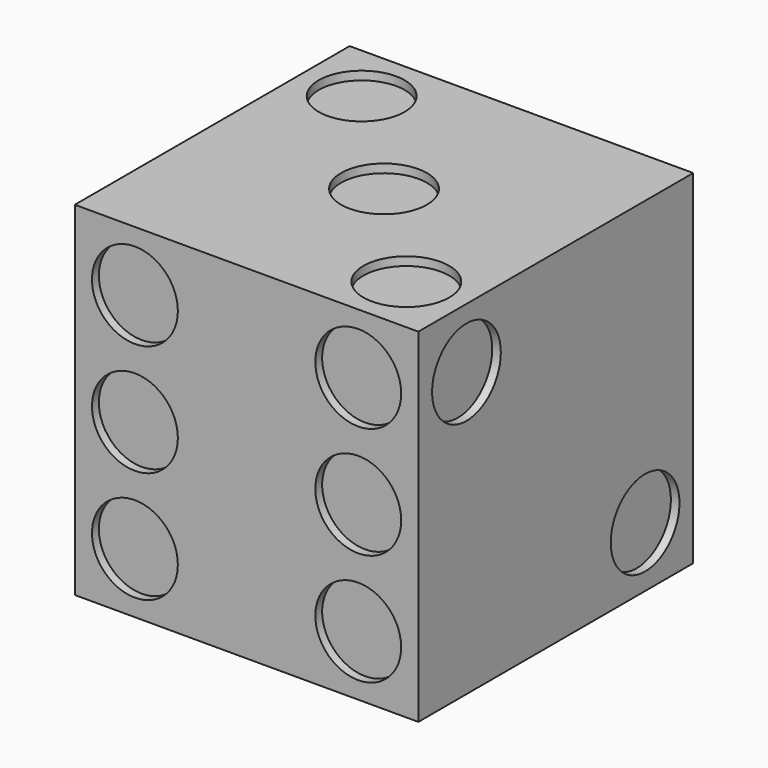
from build123d import *

# Parameters (mm, degrees)
F0_W      = 101.6
F0_H      = 101.6
F1_DEPTH  = 101.6
F2_R      = 12.7
F3_DEPTH  = 2.54
F4_R      = 12.7
F5_DEPTH  = 2.54
F6_R      = 12.7
F7_DEPTH  = 2.54
F8_R      = 12.7
F9_DEPTH  = 2.54
F10_R     = 12.7
F11_DEPTH = 2.54
F12_R     = 12.7
F13_DEPTH = 2.54


with BuildPart() as f1:
    # F0 (on Top) → F1 (new body)
    with BuildSketch(Plane.XY):
        with Locations((-4.690753, -12.038526)):
            Rectangle(F0_W, F0_H)
    extrude(amount=F1_DEPTH)

    # F2 (on face) → F3 (cut)
    with BuildSketch(Plane.XZ.offset(62.838526)):
        with Locations((-37.710753, 17.78)):
            Circle(F2_R)
        with Locations((-37.710753, 50.8)):
            Circle(F2_R)
        with Locations((-37.710753, 83.82)):
            Circle(F2_R)
        with Locations((28.329247, 17.78)):
            Circle(F2_R)
        with Locations((28.329247, 50.8)):
            Circle(F2_R)
        with Locations((28.329247, 83.82)):
            Circle(F2_R)
    extrude(amount=-F3_DEPTH, mode=Mode.SUBTRACT)

    # F4 (on face) → F5 (cut)
    with BuildSketch(Plane(origin=(0, 38.761474, 0), x_dir=(-1, 0, 0), z_dir=(0, 1, 0))):
        with Locations((4.690753, 50.8)):
            Circle(F4_R)
    extrude(amount=-F5_DEPTH, mode=Mode.SUBTRACT)

    # F6 (on face) → F7 (cut)
    with BuildSketch(Plane(origin=(-55.490753, 0, 0), x_dir=(0, -1, 0), z_dir=(-1, 0, 0))):
        with Locations((-20.981474, 83.82)):
            Circle(F6_R)
        with Locations((12.038526, 50.8)):
            Circle(F6_R)
        with Locations((-20.981474, 17.78)):
            Circle(F6_R)
        with Locations((45.058526, 83.82)):
            Circle(F6_R)
        with Locations((45.058526, 17.78)):
            Circle(F6_R)
    extrude(amount=-F7_DEPTH, mode=Mode.SUBTRACT)

    # F8 (on face) → F9 (cut)
    with BuildSketch(Plane.YZ.offset(46.109247)):
        with Locations((-45.058526, 83.82)):
            Circle(F8_R)
        with Locations((20.981474, 17.78)):
            Circle(F8_R)
    extrude(amount=-F9_DEPTH, mode=Mode.SUBTRACT)

    # F10 (on face) → F11 (cut)
    with BuildSketch(Plane.XY.offset(101.6)):
        with Locations((-37.710753, 20.981474)):
            Circle(F10_R)
        with Locations((-4.690753, -12.038526)):
            Circle(F10_R)
        with Locations((28.329247, -45.058526)):
            Circle(F10_R)
    extrude(amount=-F11_DEPTH, mode=Mode.SUBTRACT)

    # F12 (on face) → F13 (cut)
    with BuildSketch(Plane(origin=(0, 0, 0), x_dir=(1, 0, 0), z_dir=(0, 0, -1))):
        with Locations((-37.710753, 45.058526)):
            Circle(F12_R)
        with Locations((-37.710753, -20.981474)):
            Circle(F12_R)
        with Locations((28.329247, 45.058526)):
            Circle(F12_R)
        with Locations((28.329247, -20.981474)):
            Circle(F12_R)
    extrude(amount=-F13_DEPTH, mode=Mode.SUBTRACT)


solid = f1.part
